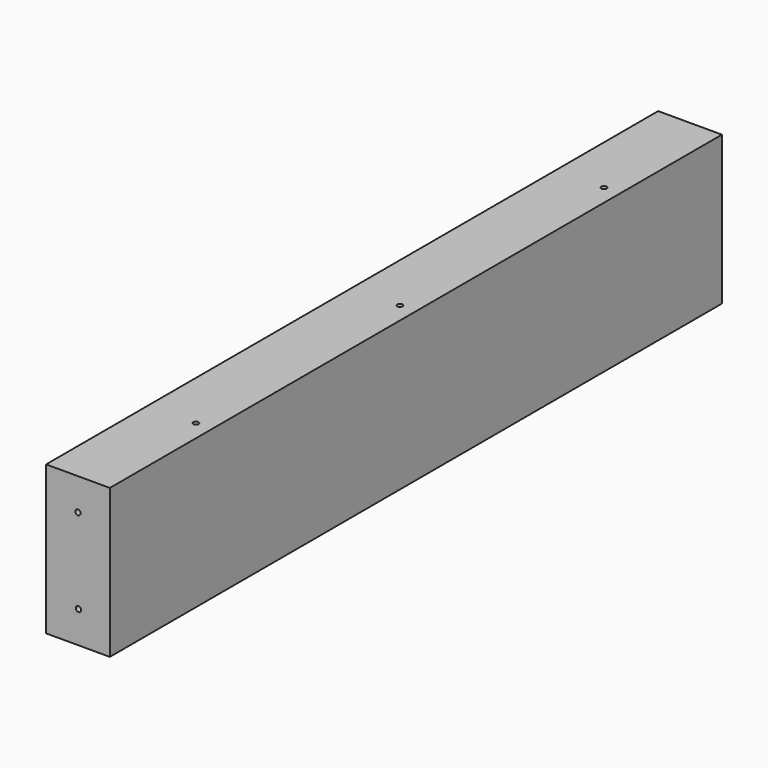
from build123d import *

# Parameters (mm, degrees)
F0_W     = 38.1
F0_H     = 88.9
F1_DEPTH = 457.2
F2_R     = 1.5875
F3_DEPTH = 457.2
F4_R     = 1.5875
F5_DEPTH = 25.4


with BuildPart() as f1:
    # F0 (on Front) → F1 (new body)
    with BuildSketch(Plane.XZ):
        with Locations((19.05, -44.45)):
            Rectangle(F0_W, F0_H)
    extrude(amount=F1_DEPTH)

    # F2 (on Front) → F3 (cut)
    with BuildSketch(Plane.XZ):
        with Locations((19.05, -19.05)):
            Circle(F2_R)
        with Locations((19.375634, -69.848956)):
            Circle(F2_R)
    extrude(amount=F3_DEPTH, mode=Mode.SUBTRACT)

    # F4 (on Top) → F5 (cut)
    with BuildSketch(Plane.XY):
        with Locations((28.575, -76.2)):
            Circle(F4_R)
        with Locations((28.575, -228.6)):
            Circle(F4_R)
        with Locations((28.575, -381)):
            Circle(F4_R)
    extrude(amount=-F5_DEPTH, mode=Mode.SUBTRACT)


solid = f1.part
